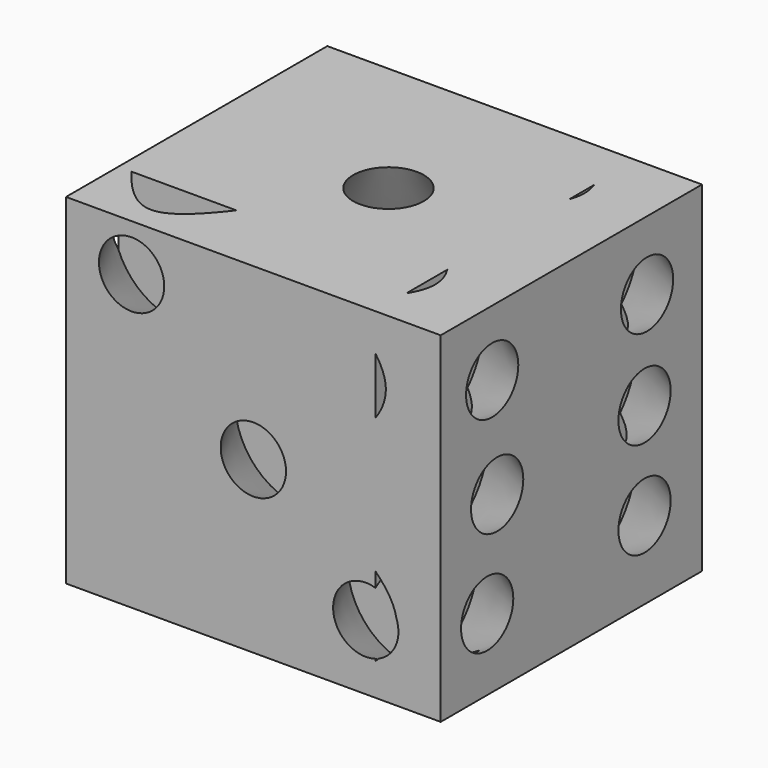
from build123d import *

# Parameters (mm, degrees)
F0_W     = 29.1386954486
F0_H     = 26.4676492661
F1_DEPTH = 25.4
F2_R     = 2.7472233706
F3_DEPTH = 5.08
F3_TAPER = -30
F4_R     = 2.54
F5_DEPTH = 5.08
F5_TAPER = -30
F6_R     = 2.54
F7_DEPTH = 5.08
F7_TAPER = -30


with BuildPart() as f1:
    # F0 (on Front) → F1 (new body)
    with BuildSketch(Plane.XZ):
        Rectangle(F0_W, F0_H)
    extrude(amount=F1_DEPTH)

    # F2 (on face) → F3 (cut)
    with BuildSketch(Plane.XY.offset(13.2338246331)):
        with Locations((0, -12.2625352815)):
            Circle(F2_R)
    extrude(amount=-F3_DEPTH, taper=F3_TAPER, mode=Mode.SUBTRACT)

    # F4 (on face) → F5 (cut)
    with BuildSketch(Plane.XZ.offset(25.4)):
        with Locations((8.7416088209, -8.1345522776)):
            Circle(F4_R)
        Circle(F4_R)
        with Locations((-9.4700763002, 9.5914872363)):
            Circle(F4_R)
    extrude(amount=-F5_DEPTH, taper=F5_TAPER, mode=Mode.SUBTRACT)

    # F6 (on face) → F7 (cut)
    with BuildSketch(Plane.YZ.offset(14.5693477243)):
        with Locations((-20.3970875591, 8.1345522776)):
            Circle(F6_R)
        with Locations((-19.911441952, 0.1214112272)):
            Circle(F6_R)
        with Locations((-20.8827313036, -7.6489071362)):
            Circle(F6_R)
        with Locations((-5.5849160999, -7.1632624604)):
            Circle(F6_R)
        with Locations((-5.5849160999, 0.3642337106)):
            Circle(F6_R)
        with Locations((-5.342093762, 7.8917304054)):
            Circle(F6_R)
    extrude(amount=-F7_DEPTH, taper=F7_TAPER, mode=Mode.SUBTRACT)


solid = f1.part
